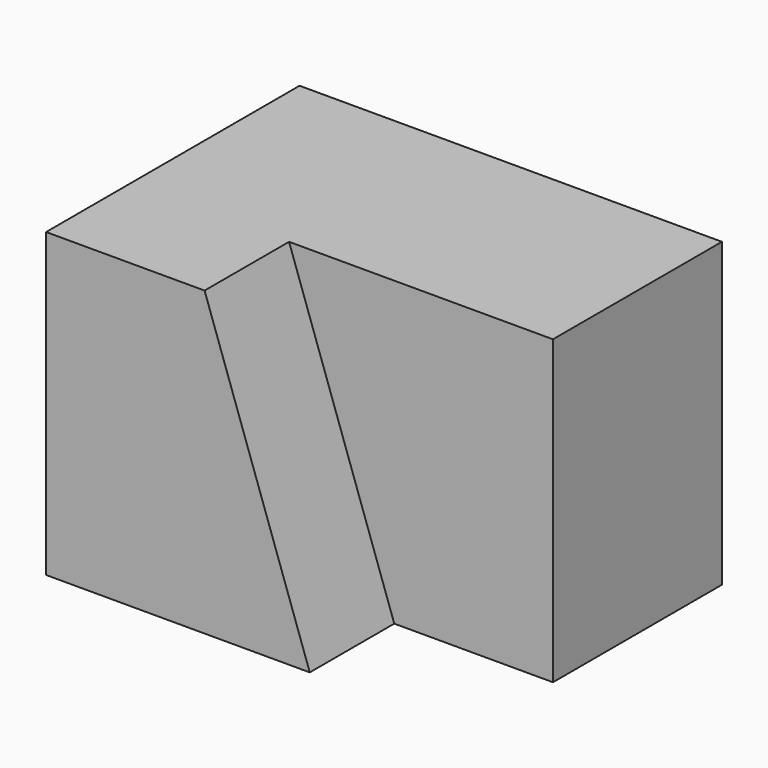
from build123d import *

# Parameters (mm, degrees)
F0_W     = 50.8
F0_H     = 36.3136812884
F1_DEPTH = 25.4
F2_DEPTH = 38.1
F4_DEPTH = 12.7


with BuildPart() as f1:
    # F0 (on Front) → F1 (new body)
    with BuildSketch(Plane.XZ):
        with Locations((25.4, 18.1568406442)):
            Rectangle(F0_W, F0_H)
    extrude(amount=F1_DEPTH)


with BuildPart() as f2:
    # F0 (on Front) → F2 (new body)
    with BuildSketch(Plane.XZ):
        with Locations((25.4, 18.1568406442)):
            Rectangle(F0_W, F0_H)
    extrude(amount=F2_DEPTH)

    # F3 (on face) → F4 (cut)
    with BuildSketch(Plane.XZ.offset(38.1)):
        Polygon((50.8, 36.3136812884), (19.0622135997, 36.3136812884), (31.7133627832, 0), (50.8, 0), align=None)
    extrude(amount=-F4_DEPTH, mode=Mode.SUBTRACT)


solid = Compound([f1.part, f2.part])
